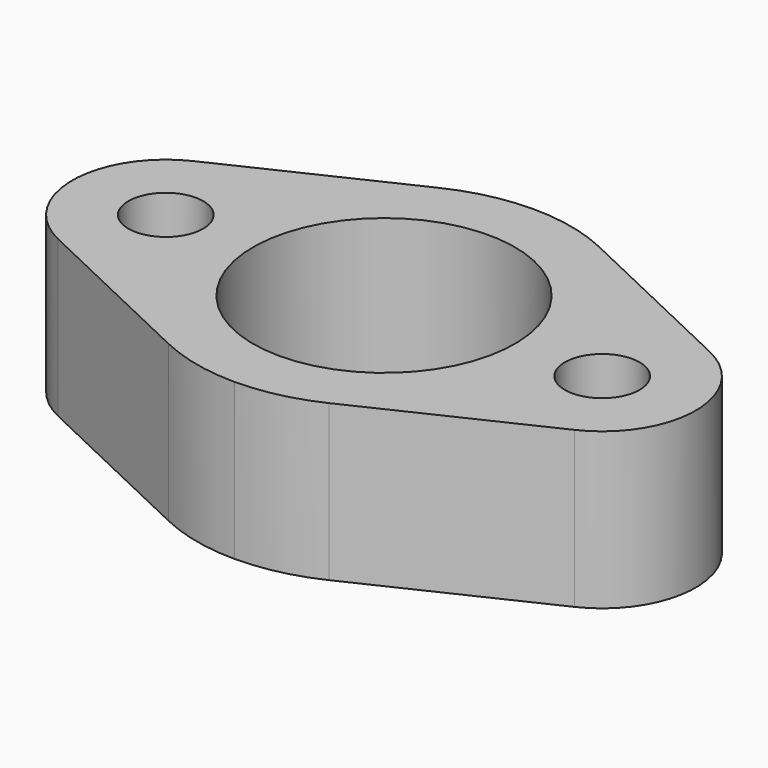
from build123d import *

# Parameters (mm, degrees)
F0_R     = 6
F1_DEPTH = 10
F2_DEPTH = 25


with BuildPart() as f1:
    # F0 (on Top) → F1 (new body)
    with BuildSketch(Plane.XY):
        with BuildLine():
            ThreePointArc((0, 21), (21, 0), (0, -21))
            Line((0, -21), (0, -30))
            ThreePointArc((0, -30), (6.589495, -29.267363), (12.857143, -27.105237))
            Line((12.857143, -27.105237), (41.428571, -13.552619))
            ThreePointArc((41.428571, -13.552619), (50, 0), (41.428571, 13.552619))
            Line((41.428571, 13.552619), (12.857143, 27.105237))
            ThreePointArc((12.857143, 27.105237), (6.589495, 29.267363), (0, 30))
            Line((0, 30), (0, 21))
        make_face()
        with Locations((35, 0)):
            Circle(F0_R, mode=Mode.SUBTRACT)
        with BuildLine():
            Line((0, -30), (0, -21))
            ThreePointArc((0, -21), (-21, 0), (0, 21))
            Line((0, 21), (0, 30))
            ThreePointArc((0, 30), (-6.589495, 29.267363), (-12.857143, 27.105237))
            Line((-12.857143, 27.105237), (-41.428571, 13.552619))
            ThreePointArc((-41.428571, 13.552619), (-50, 0), (-41.428571, -13.552619))
            Line((-41.428571, -13.552619), (-12.857143, -27.105237))
            ThreePointArc((-12.857143, -27.105237), (-6.589495, -29.267363), (0, -30))
        make_face()
        with Locations((-35, 0)):
            Circle(F0_R, mode=Mode.SUBTRACT)
    extrude(amount=F1_DEPTH)

    # F0 (on Top) → F2 (join)
    with BuildSketch(Plane.XY):
        with BuildLine():
            ThreePointArc((0, 21), (21, 0), (0, -21))
            Line((0, -21), (0, -30))
            ThreePointArc((0, -30), (6.589495, -29.267363), (12.857143, -27.105237))
            Line((12.857143, -27.105237), (41.428571, -13.552619))
            ThreePointArc((41.428571, -13.552619), (50, 0), (41.428571, 13.552619))
            Line((41.428571, 13.552619), (12.857143, 27.105237))
            ThreePointArc((12.857143, 27.105237), (6.589495, 29.267363), (0, 30))
            Line((0, 30), (0, 21))
        make_face()
        with Locations((35, 0)):
            Circle(F0_R, mode=Mode.SUBTRACT)
        with BuildLine():
            Line((0, -30), (0, -21))
            ThreePointArc((0, -21), (-21, 0), (0, 21))
            Line((0, 21), (0, 30))
            ThreePointArc((0, 30), (-6.589495, 29.267363), (-12.857143, 27.105237))
            Line((-12.857143, 27.105237), (-41.428571, 13.552619))
            ThreePointArc((-41.428571, 13.552619), (-50, 0), (-41.428571, -13.552619))
            Line((-41.428571, -13.552619), (-12.857143, -27.105237))
            ThreePointArc((-12.857143, -27.105237), (-6.589495, -29.267363), (0, -30))
        make_face()
        with Locations((-35, 0)):
            Circle(F0_R, mode=Mode.SUBTRACT)
    extrude(amount=F2_DEPTH)


solid = f1.part
